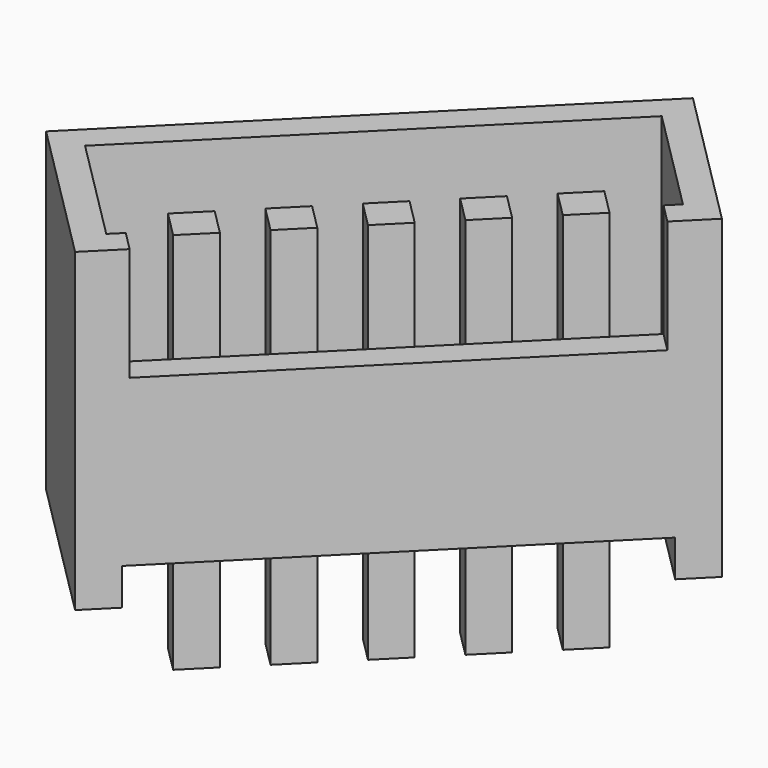
from build123d import *

# Parameters (mm, degrees)
SKETCH052_W             = 8.3
SKETCH052_H             = 3.35
PAD022_DEPTH            = 4.55
SKETCH053_W             = 0.6
SKETCH053_H             = 3.35
PAD023_DEPTH            = 0.6
SKETCH054_W             = 7.4
SKETCH054_H             = 2.45
POCKET006_DEPTH         = 3.9
SKETCH055_W             = 6.9
SKETCH055_H             = 1.85
POCKET007_DEPTH         = 0.45
SKETCH004_W             = 0.6
SKETCH004_H             = 0.6
PAD024_DEPTH            = 2.5
SKETCH005_W             = 0.6
SKETCH005_H             = 0.6
PAD025_DEPTH            = 3.75
BODY002_PLACEMENT_ANGLE = 45


with BuildPart() as part:
    # Sketch052 → Pad022 (new body)
    with BuildSketch(Plane.XY):
        with Locations((4.15, 1.675)):
            Rectangle(SKETCH052_W, SKETCH052_H)
    extrude(amount=PAD022_DEPTH)

    # Sketch053 (on Face5 of Pad022) → Pad023 (join)
    with BuildSketch(Plane(origin=(0, 0, 0), x_dir=(1, 0, 0), z_dir=(0, 0, -1))):
        with Locations((0.3, -1.675)):
            Rectangle(SKETCH053_W, SKETCH053_H)
        with Locations((8, -1.675)):
            Rectangle(SKETCH053_W, SKETCH053_H)
    extrude(amount=PAD023_DEPTH)

    # Sketch054 (on Face7 of Pad023) → Pocket006 (cut)
    with BuildSketch(Plane.XY.offset(4.55)):
        with Locations((4.15, 1.675)):
            Rectangle(SKETCH054_W, SKETCH054_H)
    extrude(amount=-POCKET006_DEPTH, mode=Mode.SUBTRACT)

    # Sketch055 (on Face1 of Pocket006) → Pocket007 (cut)
    with BuildSketch(Plane.XZ):
        with Locations((4.15, 3.625)):
            Rectangle(SKETCH055_W, SKETCH055_H)
    extrude(amount=-POCKET007_DEPTH, mode=Mode.SUBTRACT)

    # Sketch004 (on Face3 of Pocket007) → Pad024 (join)
    with BuildSketch(Plane(origin=(0, 0, 0), x_dir=(1, 0, 0), z_dir=(0, 0, -1))):
        with Locations((1.76363, -2.15)):
            Rectangle(SKETCH004_W, SKETCH004_H)
        with Locations((3.01363, -2.15)):
            Rectangle(SKETCH004_W, SKETCH004_H)
        with Locations((4.26363, -2.15)):
            Rectangle(SKETCH004_W, SKETCH004_H)
        with Locations((5.51363, -2.15)):
            Rectangle(SKETCH004_W, SKETCH004_H)
        with Locations((6.76363, -2.15)):
            Rectangle(SKETCH004_W, SKETCH004_H)
    extrude(amount=PAD024_DEPTH)

    # Sketch005 (on Face3 of Pad024) → Pad025 (join)
    with BuildSketch(Plane(origin=(0, 0, 0), x_dir=(1, 0, 0), z_dir=(0, 0, -1))):
        with Locations((1.76363, -2.15)):
            Rectangle(SKETCH005_W, SKETCH005_H)
        with Locations((3.01363, -2.15)):
            Rectangle(SKETCH005_W, SKETCH005_H)
        with Locations((4.26363, -2.15)):
            Rectangle(SKETCH005_W, SKETCH005_H)
        with Locations((5.51363, -2.15)):
            Rectangle(SKETCH005_W, SKETCH005_H)
        with Locations((6.76363, -2.15)):
            Rectangle(SKETCH005_W, SKETCH005_H)
    extrude(amount=-PAD025_DEPTH)


with BuildPart() as part_1:
    # Body002 placement: moved
    add(part.part.moved(Location((41.05, -48.95, 120))).rotate(Axis((41.05, -48.95, 120), (0, 0, 1)), BODY002_PLACEMENT_ANGLE))


solid = part_1.part
